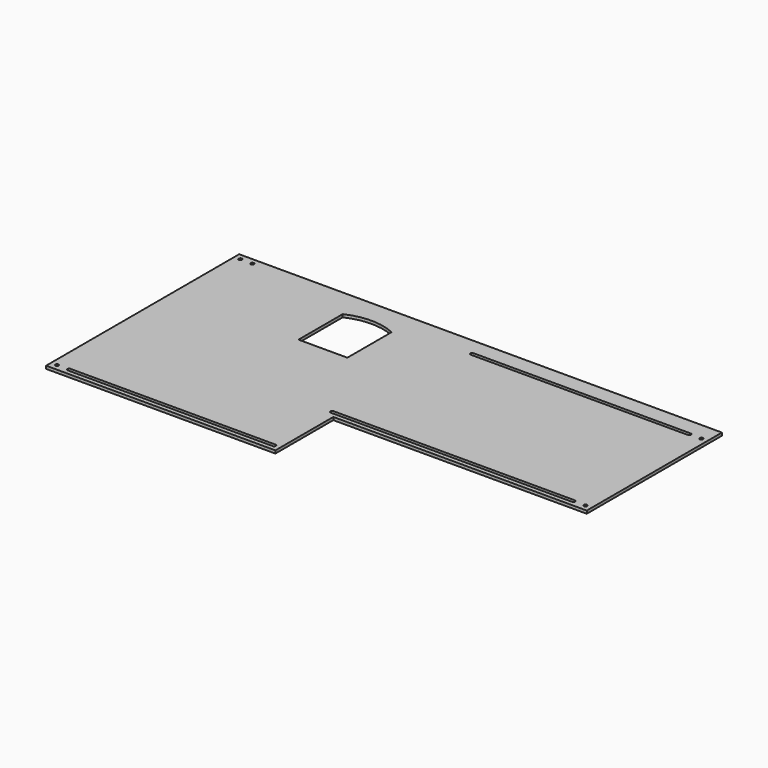
from build123d import *

# Parameters (mm, degrees)
SKETCH_R      = 3.556
EXTRUDE_DEPTH = 5.9944


with BuildPart() as part:
    # Sketch → Extrude (new body)
    with BuildSketch(Plane.XY):
        Polygon((0, -508), (482.6, -508), (482.6, -355.6), (1016, -355.6), (1016, 0), (0, 0), align=None)
        with Locations((12.7, -12.7)):
            Circle(SKETCH_R, mode=Mode.SUBTRACT)
        with Locations((38.1, -12.7)):
            Circle(SKETCH_R, mode=Mode.SUBTRACT)
        with Locations((1003.3, -38.1)):
            Circle(SKETCH_R, mode=Mode.SUBTRACT)
        with Locations((1003.3, -342.9)):
            Circle(SKETCH_R, mode=Mode.SUBTRACT)
        with Locations((12.7, -495.3)):
            Circle(SKETCH_R, mode=Mode.SUBTRACT)
        with BuildLine():
            Line((266.065, -176.53), (368.935, -176.53))
            Line((368.935, -176.53), (368.935, -60.148744))
            ThreePointArc((368.935, -60.148744), (317.5, -48.768), (266.065, -60.148744))
            Line((266.065, -176.53), (266.065, -60.148744))
        make_face(mode=Mode.SUBTRACT)
        with BuildLine():
            Line((469.9, -346.456), (977.9, -346.456))
            ThreePointArc((977.9, -346.456), (981.456, -342.9), (977.9, -339.344))
            Line((469.9, -339.344), (977.9, -339.344))
            ThreePointArc((469.9, -339.344), (466.344, -342.9), (469.9, -346.456))
        make_face(mode=Mode.SUBTRACT)
        with BuildLine():
            Line((520.7, -34.544), (977.9, -34.544))
            ThreePointArc((977.9, -41.656), (981.456, -38.1), (977.9, -34.544))
            Line((520.7, -41.656), (977.9, -41.656))
            ThreePointArc((520.7, -34.544), (517.144, -38.1), (520.7, -41.656))
        make_face(mode=Mode.SUBTRACT)
        with BuildLine():
            Line((38.1, -491.744), (469.9, -491.744))
            ThreePointArc((469.9, -498.856), (473.456, -495.3), (469.9, -491.744))
            Line((38.1, -498.856), (469.9, -498.856))
            ThreePointArc((38.1, -491.744), (34.544, -495.3), (38.1, -498.856))
        make_face(mode=Mode.SUBTRACT)
    extrude(amount=EXTRUDE_DEPTH)


solid = part.part
